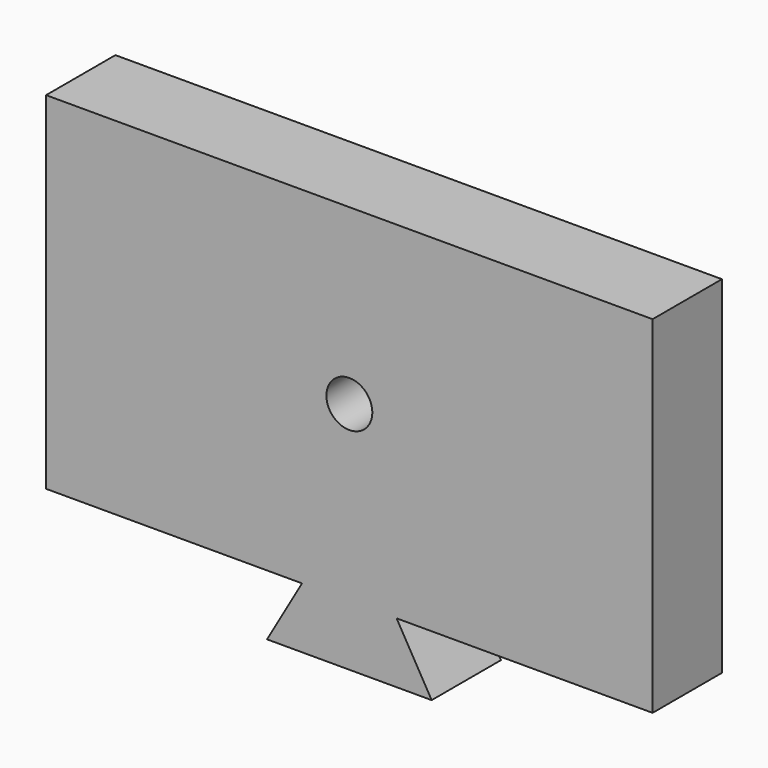
from build123d import *

# Parameters (mm, degrees)
F1_DEPTH = 10
F2_D     = 5.3
F4_D     = 4.2
F4_DEPTH = 10.4
F4_TIP   = 1.2618073


with BuildPart() as f1:
    # F0 (on Front) → F1 (new body)
    with BuildSketch(Plane.XZ):
        Polygon((35, -20), (35, 0), (35, 20), (-35, 20), (-35, -20), (-5.4585481157, -20), (-9.5, -27), (0, -27), (9.5, -27), (5.4585481157, -20), align=None)
    extrude(amount=-F1_DEPTH)

    # F2 (through all)
    with Locations(Plane.XZ):
        with Locations((0, 0)):
            Hole(F2_D / 2)

    # F4
    with Locations(Plane(origin=(0, 0, -20), x_dir=(1, 0, 0), z_dir=(0, 0, -1))):
        with Locations((-20, -5), (20, -5)):
            Hole(F4_D / 2, depth=F4_DEPTH)
            with Locations((0, 0, -(F4_DEPTH + F4_TIP / 2))):  # 118° drill point
                Cone(0, F4_D / 2, F4_TIP, mode=Mode.SUBTRACT)


solid = f1.part
